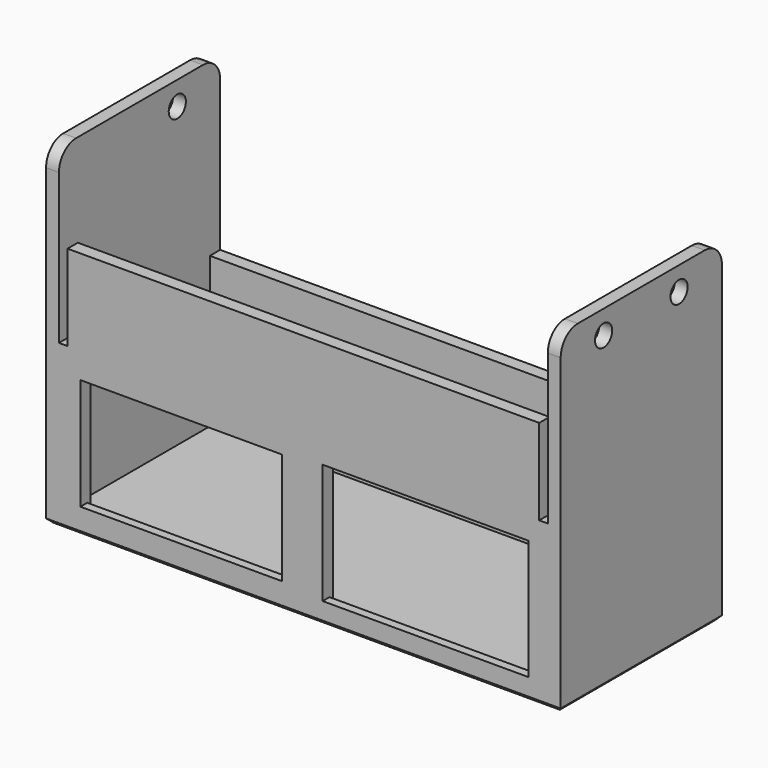
from build123d import *

# Parameters (mm, degrees)
F2_R      = 2.5
F3_DEPTH  = 3
F4_W      = 3
F4_H      = 3
F4_W_2    = 41
F4_H_2    = 35
F5_DEPTH  = 114
F6_R      = 2.5
F7_DEPTH  = 3
F8_W      = 110
F8_H      = 20
F9_DEPTH  = 3
F10_W     = 47
F10_H     = 26
F10_W_2   = 48
F10_H_2   = 28
F11_DEPTH = 3
F13_DEPTH = 3
F14_SIZE  = 1
F16_W     = 48
F16_H     = 2
F16_W_2   = 47
F17_DEPTH = 1


with BuildPart() as f3:
    # F2 (on Right) → F3 (new body)
    with BuildSketch(Plane.YZ):
        with BuildLine():
            ThreePointArc((22.5, 35), (21.0355339059, 38.5355339059), (17.5, 40))
            Line((17.5, 40), (-19.5, 40))
            ThreePointArc((-19.5, 40), (-23.0355339059, 38.5355339059), (-24.5, 35))
            Line((-24.5, 35), (-24.5, -38))
            Line((-24.5, -38), (22.5, -38))
            Line((22.5, -38), (22.5, 35))
        make_face()
        with Locations((-12, 34.5)):
            Circle(F2_R, mode=Mode.SUBTRACT)
        with Locations((10, 34.5)):
            Circle(F2_R, mode=Mode.SUBTRACT)
    extrude(amount=F3_DEPTH)

    # F4 (on Right) → F5 (join)
    with BuildSketch(Plane.YZ):
        with Locations((21, -36.5)):
            Rectangle(F4_W, F4_H)
        with Locations((-1, -36.5)):
            Rectangle(F4_W_2, F4_H)
        with Locations((21, -17.5)):
            Rectangle(F4_W, F4_H_2)
        with Locations((-23, -36.5)):
            Rectangle(F4_W, F4_H)
        with Locations((-23, -17.5)):
            Rectangle(F4_W, F4_H_2)
    extrude(amount=-F5_DEPTH)

    # F6 (on face) → F7 (join)
    with BuildSketch(Plane(origin=(-114, 0, 0), x_dir=(0, -1, 0), z_dir=(-1, 0, 0))):
        with BuildLine():
            ThreePointArc((24.5, 35), (23.0355339059, 38.5355339059), (19.5, 40))
            Line((19.5, 40), (-17.5, 40))
            ThreePointArc((-17.5, 40), (-21.0355339059, 38.5355339059), (-22.5, 35))
            Line((-22.5, 35), (-22.5, -38))
            Line((-22.5, -38), (24.5, -38))
            Line((24.5, -38), (24.5, 35))
        make_face()
        with Locations((-10, 34.5)):
            Circle(F6_R, mode=Mode.SUBTRACT)
    extrude(amount=F7_DEPTH)

    # F8 (on face) → F9 (join)
    with BuildSketch(Plane.XZ.offset(24.5)):
        with Locations((-57, 10)):
            Rectangle(F8_W, F8_H)
    extrude(amount=-F9_DEPTH)

    # F10 (on face) → F11 (cut, through all)
    with BuildSketch(Plane.XZ.offset(24.5)):
        with Locations((-85.5, -19)):
            Rectangle(F10_W, F10_H)
        with Locations((-28.5, -19)):
            Rectangle(F10_W_2, F10_H_2)
    extrude(amount=-F11_DEPTH, mode=Mode.SUBTRACT)

    # F12 (on face) → F13 (cut, through all)
    with BuildSketch(Plane(origin=(0, 22.5, 0), x_dir=(-1, 0, 0), z_dir=(0, 1, 0))):
        with BuildLine():
            ThreePointArc((82, -26), (82.5857864376, -27.4142135624), (84, -28))
            Line((84, -28), (95, -28))
            ThreePointArc((95, -28), (96.4142135624, -27.4142135624), (97, -26))
            Line((97, -26), (97, -22))
            ThreePointArc((97, -22), (96.4142135624, -20.5857864376), (95, -20))
            Line((95, -20), (84, -20))
            ThreePointArc((84, -20), (82.5857864376, -20.5857864376), (82, -22))
            Line((82, -22), (82, -26))
        make_face()
        with BuildLine():
            ThreePointArc((17, -26), (17.5857864376, -27.4142135624), (19, -28))
            Line((19, -28), (30, -28))
            ThreePointArc((30, -28), (31.4142135624, -27.4142135624), (32, -26))
            Line((32, -26), (32, -22))
            ThreePointArc((32, -22), (31.4142135624, -20.5857864376), (30, -20))
            Line((30, -20), (19, -20))
            ThreePointArc((19, -20), (17.5857864376, -20.5857864376), (17, -22))
            Line((17, -22), (17, -26))
        make_face()
    extrude(amount=-F13_DEPTH, mode=Mode.SUBTRACT)

    # F14
    f14_edges = [f3.edges().sort_by_distance(p)[0] for p in [
        (-57, -24.5, -38),
        (3, -1, -38),
        (-57, 22.5, -38),
        (-117, -1, -38),
    ]]
    chamfer(f14_edges, length=F14_SIZE)

    # F16 (on face) → F17 (cut)
    with BuildSketch(Plane(origin=(0, -21.5, 0), x_dir=(-1, 0, 0), z_dir=(0, 1, 0))):
        with Locations((28.5, -34)):
            Rectangle(F16_W, F16_H)
        with Locations((85.5, -33)):
            Rectangle(F16_W_2, F16_H)
        with Locations((85.5, -5)):
            Rectangle(F16_W_2, F16_H)
        with Locations((28.5, -4)):
            Rectangle(F16_W, F16_H)
    extrude(amount=-F17_DEPTH, mode=Mode.SUBTRACT)


solid = f3.part
